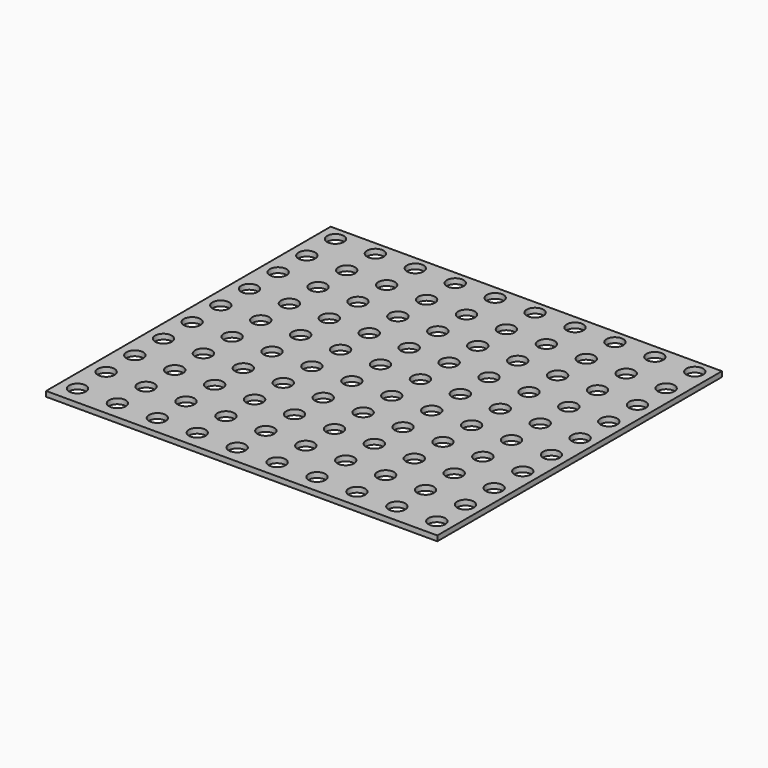
from build123d import *

# Parameters (mm, degrees)
F0_W     = 99.561318
F0_H     = 90.53763
F1_DEPTH = 1.3208
F2_R     = 2.12764
F3_DEPTH = 25.4


with BuildPart() as f1:
    # F0 (on Top) → F1 (new body)
    with BuildSketch(Plane.XY):
        Rectangle(F0_W, F0_H)
    extrude(amount=F1_DEPTH)

    # F2 (on face) → F3 (cut)
    with BuildSketch(Plane.XY.offset(1.3208)):
        with Locations((-45.742989, 41.740105)):
            Circle(F2_R)
        with Locations((-35.582989, 41.740105)):
            Circle(F2_R)
        with Locations((-25.422989, 41.740105)):
            Circle(F2_R)
        with Locations((-15.262989, 41.740105)):
            Circle(F2_R)
        with Locations((-5.102989, 41.740105)):
            Circle(F2_R)
        with Locations((5.057011, 41.740105)):
            Circle(F2_R)
        with Locations((15.217011, 41.740105)):
            Circle(F2_R)
        with Locations((25.377011, 41.740105)):
            Circle(F2_R)
        with Locations((35.537011, 41.740105)):
            Circle(F2_R)
        with Locations((45.697011, 41.740105)):
            Circle(F2_R)
        with Locations((-45.722469, 32.596128)):
            Circle(F2_R)
        with Locations((-25.402469, 32.596128)):
            Circle(F2_R)
        with Locations((45.717531, 32.596128)):
            Circle(F2_R)
        with Locations((15.237531, 32.596128)):
            Circle(F2_R)
        with Locations((-5.082469, 32.596128)):
            Circle(F2_R)
        with Locations((35.557531, 32.596128)):
            Circle(F2_R)
        with Locations((-15.242469, 32.596128)):
            Circle(F2_R)
        with Locations((5.077531, 32.596128)):
            Circle(F2_R)
        with Locations((25.397531, 32.596128)):
            Circle(F2_R)
        with Locations((-35.562469, 32.596128)):
            Circle(F2_R)
        with Locations((-45.701949, 23.452151)):
            Circle(F2_R)
        with Locations((-25.381949, 23.452151)):
            Circle(F2_R)
        with Locations((45.738051, 23.452151)):
            Circle(F2_R)
        with Locations((15.258051, 23.452151)):
            Circle(F2_R)
        with Locations((-5.061949, 23.452151)):
            Circle(F2_R)
        with Locations((35.578051, 23.452151)):
            Circle(F2_R)
        with Locations((-15.221949, 23.452151)):
            Circle(F2_R)
        with Locations((5.098051, 23.452151)):
            Circle(F2_R)
        with Locations((25.418051, 23.452151)):
            Circle(F2_R)
        with Locations((-35.541949, 23.452151)):
            Circle(F2_R)
        with Locations((-45.681429, 14.308174)):
            Circle(F2_R)
        with Locations((-25.361429, 14.308174)):
            Circle(F2_R)
        with Locations((45.758571, 14.308174)):
            Circle(F2_R)
        with Locations((15.278571, 14.308174)):
            Circle(F2_R)
        with Locations((-5.041429, 14.308174)):
            Circle(F2_R)
        with Locations((35.598571, 14.308174)):
            Circle(F2_R)
        with Locations((-15.201429, 14.308174)):
            Circle(F2_R)
        with Locations((5.118571, 14.308174)):
            Circle(F2_R)
        with Locations((25.438571, 14.308174)):
            Circle(F2_R)
        with Locations((-35.521429, 14.308174)):
            Circle(F2_R)
        with Locations((-45.660909, 5.164197)):
            Circle(F2_R)
        with Locations((-25.340909, 5.164197)):
            Circle(F2_R)
        with Locations((45.779091, 5.164197)):
            Circle(F2_R)
        with Locations((15.299091, 5.164197)):
            Circle(F2_R)
        with Locations((-5.020909, 5.164197)):
            Circle(F2_R)
        with Locations((35.619091, 5.164197)):
            Circle(F2_R)
        with Locations((-15.180909, 5.164197)):
            Circle(F2_R)
        with Locations((5.139091, 5.164197)):
            Circle(F2_R)
        with Locations((25.459091, 5.164197)):
            Circle(F2_R)
        with Locations((-35.500909, 5.164197)):
            Circle(F2_R)
        with Locations((-45.64039, -3.97978)):
            Circle(F2_R)
        with Locations((-25.32039, -3.97978)):
            Circle(F2_R)
        with Locations((45.79961, -3.97978)):
            Circle(F2_R)
        with Locations((15.31961, -3.97978)):
            Circle(F2_R)
        with Locations((-5.00039, -3.97978)):
            Circle(F2_R)
        with Locations((35.63961, -3.97978)):
            Circle(F2_R)
        with Locations((-15.16039, -3.97978)):
            Circle(F2_R)
        with Locations((5.15961, -3.97978)):
            Circle(F2_R)
        with Locations((25.47961, -3.97978)):
            Circle(F2_R)
        with Locations((-35.48039, -3.97978)):
            Circle(F2_R)
        with Locations((-45.61987, -13.123757)):
            Circle(F2_R)
        with Locations((-25.29987, -13.123757)):
            Circle(F2_R)
        with Locations((45.82013, -13.123757)):
            Circle(F2_R)
        with Locations((15.34013, -13.123757)):
            Circle(F2_R)
        with Locations((-4.97987, -13.123757)):
            Circle(F2_R)
        with Locations((35.66013, -13.123757)):
            Circle(F2_R)
        with Locations((-15.13987, -13.123757)):
            Circle(F2_R)
        with Locations((5.18013, -13.123757)):
            Circle(F2_R)
        with Locations((25.50013, -13.123757)):
            Circle(F2_R)
        with Locations((-35.45987, -13.123757)):
            Circle(F2_R)
        with Locations((-45.59935, -22.267734)):
            Circle(F2_R)
        with Locations((-25.27935, -22.267734)):
            Circle(F2_R)
        with Locations((45.84065, -22.267734)):
            Circle(F2_R)
        with Locations((15.36065, -22.267734)):
            Circle(F2_R)
        with Locations((-4.95935, -22.267734)):
            Circle(F2_R)
        with Locations((35.68065, -22.267734)):
            Circle(F2_R)
        with Locations((-15.11935, -22.267734)):
            Circle(F2_R)
        with Locations((5.20065, -22.267734)):
            Circle(F2_R)
        with Locations((25.52065, -22.267734)):
            Circle(F2_R)
        with Locations((-35.43935, -22.267734)):
            Circle(F2_R)
        with Locations((-45.57883, -31.411711)):
            Circle(F2_R)
        with Locations((-25.25883, -31.411711)):
            Circle(F2_R)
        with Locations((45.86117, -31.411711)):
            Circle(F2_R)
        with Locations((15.38117, -31.411711)):
            Circle(F2_R)
        with Locations((-4.93883, -31.411711)):
            Circle(F2_R)
        with Locations((35.70117, -31.411711)):
            Circle(F2_R)
        with Locations((-15.09883, -31.411711)):
            Circle(F2_R)
        with Locations((5.22117, -31.411711)):
            Circle(F2_R)
        with Locations((25.54117, -31.411711)):
            Circle(F2_R)
        with Locations((-35.41883, -31.411711)):
            Circle(F2_R)
        with Locations((-45.55831, -40.555688)):
            Circle(F2_R)
        with Locations((-25.23831, -40.555688)):
            Circle(F2_R)
        with Locations((45.88169, -40.555688)):
            Circle(F2_R)
        with Locations((15.40169, -40.555688)):
            Circle(F2_R)
        with Locations((-4.91831, -40.555688)):
            Circle(F2_R)
        with Locations((35.72169, -40.555688)):
            Circle(F2_R)
        with Locations((-15.07831, -40.555688)):
            Circle(F2_R)
        with Locations((5.24169, -40.555688)):
            Circle(F2_R)
        with Locations((25.56169, -40.555688)):
            Circle(F2_R)
        with Locations((-35.39831, -40.555688)):
            Circle(F2_R)
    extrude(amount=-F3_DEPTH, mode=Mode.SUBTRACT)


solid = f1.part
